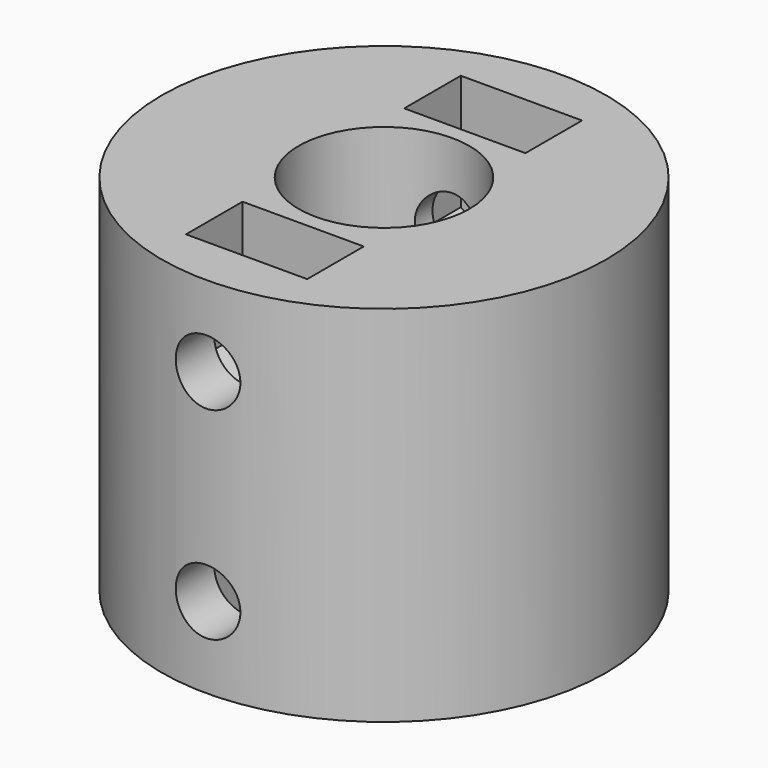
from build123d import *

# Parameters (mm, degrees)
F0_R          = 11
F1_DEPTH      = 18
F3_DEPTH      = 8
F4_R          = 4.225
F5_DEPTH      = 8
F6_R          = 1.6
F7_DEPTH      = 25
F7_DEPTH_BACK = 25
F9_START      = 5
F9_DEPTH      = 3.5
F10_START     = -5
F10_DEPTH     = 3.5


with BuildPart() as f1:
    # F0 (on Top) → F1 (new body)
    with BuildSketch(Plane.XY):
        Circle(F0_R)
    extrude(amount=F1_DEPTH)

    # F2 (on face) → F3 (cut)
    with BuildSketch(Plane(origin=(0, 0, 0), x_dir=(1, 0, 0), z_dir=(0, 0, -1))):
        with BuildLine():
            Line((1.7146428199, 2.15), (-1.7146428199, 2.15))
            ThreePointArc((-1.7146428199, 2.15), (0, -2.75), (1.7146428199, 2.15))
        make_face()
    extrude(amount=-F3_DEPTH, mode=Mode.SUBTRACT)

    # F4 (on face) + F0 (on Top) → F5 (cut)
    with BuildSketch(Plane.XY.offset(18)):
        Circle(F4_R)
    with BuildSketch(Plane.XY):
        Circle(F0_R)
    extrude(amount=-F5_DEPTH, mode=Mode.SUBTRACT)

    # F6 (on Front) → F7 (cut, two sides)
    with BuildSketch(Plane.XZ) as f7_sk:
        with Locations((0, 4)):
            Circle(F6_R)
        with Locations((0, 14)):
            Circle(F6_R)
    extrude(amount=F7_DEPTH, mode=Mode.SUBTRACT)
    extrude(f7_sk.sketch, amount=-F7_DEPTH_BACK, mode=Mode.SUBTRACT)

    # F8 (on Front) → F9 (cut)
    with BuildSketch(Plane.XZ.offset(F9_START)):
        Polygon((-3, 5.7320508076), (-3, 2.2679491924), (-3, -7.7320508076), (3, -7.7320508076), (3, 2.2679491924), (3, 5.7320508076), (0, 7.4641016151), align=None)
        Polygon((-3, 15.7320508076), (-3, 12.2679491924), (0, 10.5358983849), (3, 12.2679491924), (3, 15.7320508076), (3, 25.7320508076), (-3, 25.7320508076), align=None)
    extrude(amount=F9_DEPTH, mode=Mode.SUBTRACT)

    # F8 (on Front) → F10 (cut)
    with BuildSketch(Plane.XZ.offset(F10_START)):
        Polygon((-3, 5.7320508076), (-3, 2.2679491924), (-3, -7.7320508076), (3, -7.7320508076), (3, 2.2679491924), (3, 5.7320508076), (0, 7.4641016151), align=None)
        Polygon((-3, 15.7320508076), (-3, 12.2679491924), (0, 10.5358983849), (3, 12.2679491924), (3, 15.7320508076), (3, 25.7320508076), (-3, 25.7320508076), align=None)
    extrude(amount=-F10_DEPTH, mode=Mode.SUBTRACT)


solid = f1.part
